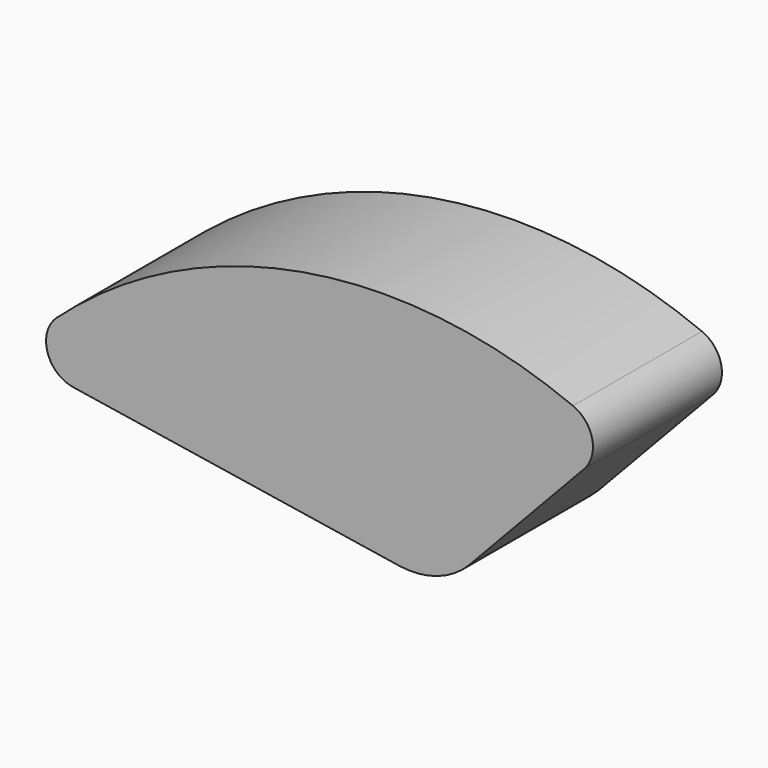
from build123d import *

# Parameters (mm, degrees)
F1_DEPTH = 25.4
F2_R     = 5.08


with BuildPart() as f1:
    # F0 (on Front) → F1 (new body)
    with BuildSketch(Plane.XZ):
        with BuildLine():
            Line((14.329544, 25.6199), (37.121165, 49.801257))
            ThreePointArc((37.121165, 49.801257), (-13.598421, 57.291577), (-57.827495, 31.361472))
            Line((-57.827495, 31.361472), (3.116123, 21.784617))
            ThreePointArc((3.116123, 21.784617), (9.197626, 22.314083), (14.329544, 25.6199))
        make_face()
    extrude(amount=F1_DEPTH)

    # F2
    f2_edges = [f1.edges().sort_by_distance(p)[0] for p in [
        (-57.827495, -12.7, 31.361472),
        (37.121165, -12.7, 49.801257),
    ]]
    fillet(f2_edges, radius=F2_R)


solid = f1.part
